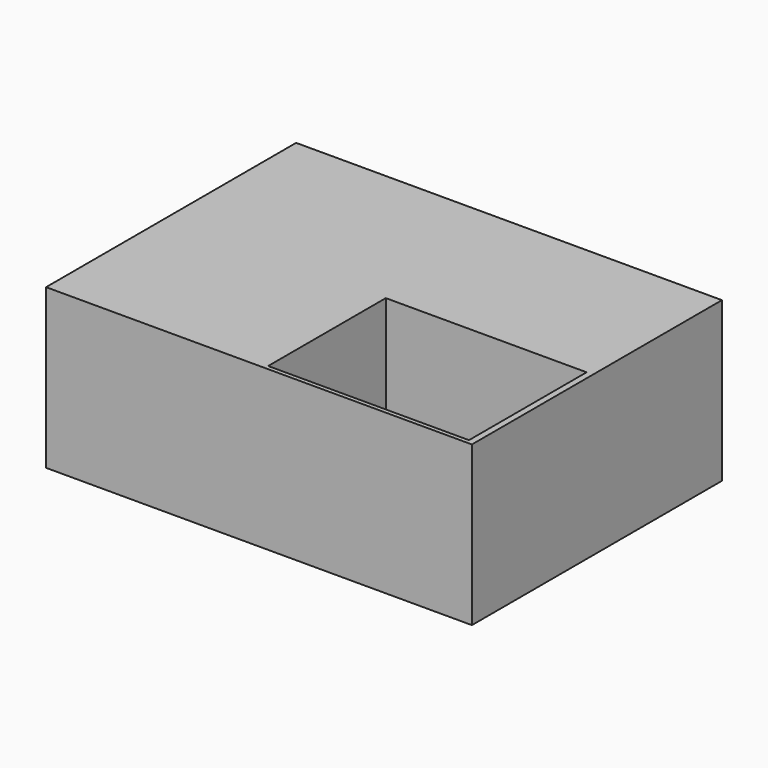
from build123d import *

# Parameters (mm, degrees)
F0_W     = 75.1286000013
F0_H     = 75.6749510765
F1_DEPTH = 25.4
F3_W     = 152.2922962904
F3_H     = 111.7689795792
F3_W_2   = 71.8111011665
F3_H_2   = 52.5860791095
F4_DEPTH = 56.896


with BuildPart() as f1:
    # F0 (on Top) → F1 (new body)
    with BuildSketch(Plane.XY):
        with Locations((37.5643000007, -37.8374755383)):
            Rectangle(F0_W, F0_H)
    extrude(amount=F1_DEPTH)


with BuildPart() as f4:
    # F3 (on Top) → F4 (new body)
    with BuildSketch(Plane.XY):
        with Locations((-0.0751465559, -0.5654413253)):
            Rectangle(F3_W, F3_H)
        with Locations((37.9036931554, -28.6490467843)):
            Rectangle(F3_W_2, F3_H_2, mode=Mode.SUBTRACT)
    extrude(amount=F4_DEPTH)


solid = f4.part
